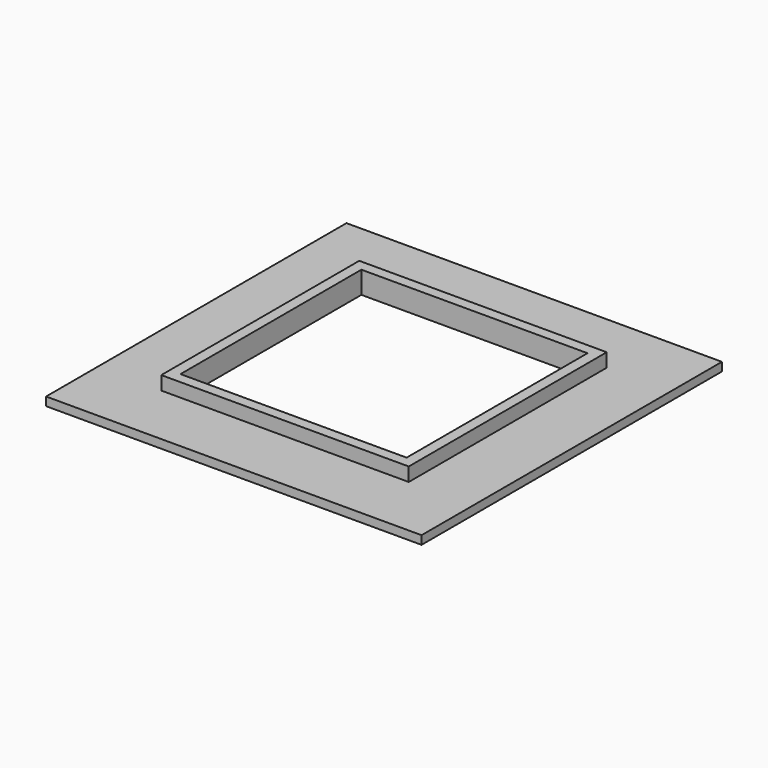
from build123d import *

# Parameters (mm, degrees)
F0_W     = 558.8
F0_H     = 558.8
F1_DEPTH = 12.7
F2_W     = 368.3
F2_H     = 368.3
F3_DEPTH = 20.32
F4_W     = 336.55
F4_H     = 336.55
F5_DEPTH = 121.92


with BuildPart() as f1:
    # F0 (on Top) → F1 (new body)
    with BuildSketch(Plane.XY):
        Rectangle(F0_W, F0_H)
    extrude(amount=F1_DEPTH)

    # F2 (on face) → F3 (join)
    with BuildSketch(Plane.XY.offset(12.7)):
        Rectangle(F2_W, F2_H)
    extrude(amount=F3_DEPTH)

    # F4 (on face) → F5 (cut)
    with BuildSketch(Plane.XY.offset(33.02)):
        Rectangle(F4_W, F4_H)
    extrude(amount=-F5_DEPTH, mode=Mode.SUBTRACT)


solid = f1.part
